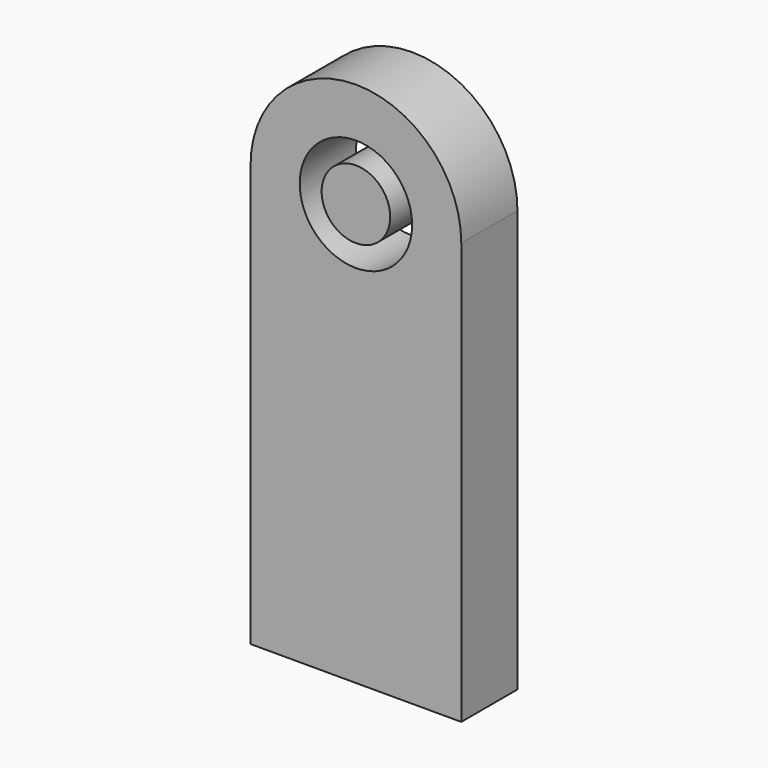
from build123d import *

# Parameters (mm, degrees)
F0_R     = 101.6
F0_R_2   = 61.976869
F1_DEPTH = 127


with BuildPart() as f1:
    # F0 (on Front) → F1 (new body)
    with BuildSketch(Plane.XZ):
        with BuildLine():
            Line((-190.5, 762), (-190.5, 0))
            Line((-190.5, 0), (190.5, 0))
            Line((190.5, 0), (190.5, 762))
            ThreePointArc((190.5, 762), (0, 952.5), (-190.5, 762))
        make_face()
        with Locations((0, 762)):
            Circle(F0_R, mode=Mode.SUBTRACT)
        with Locations((0, 762)):
            Circle(F0_R_2)
    extrude(amount=F1_DEPTH)


solid = f1.part
